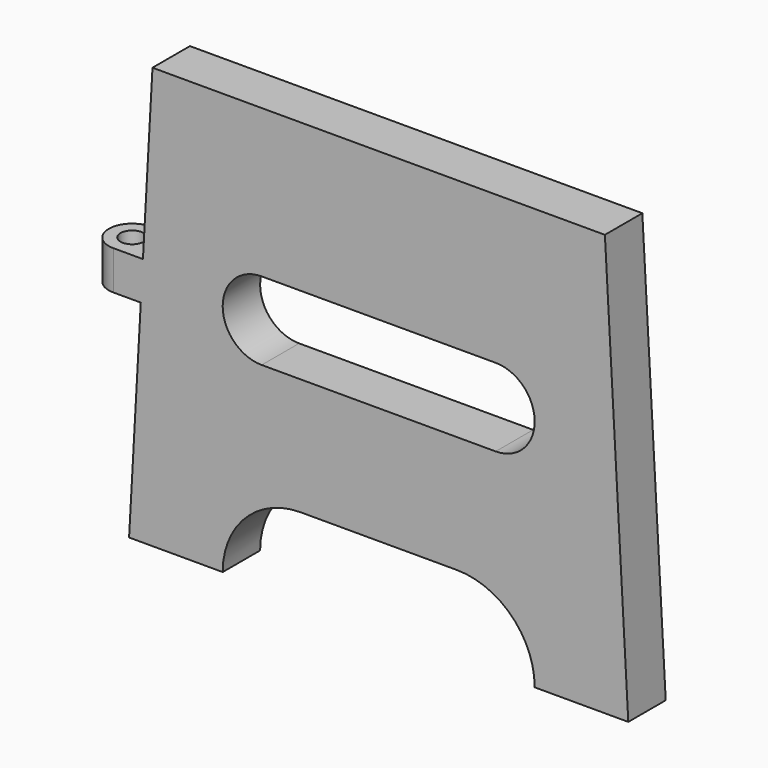
from build123d import *

# Parameters (mm, degrees)
F1_DEPTH = 15
F3_R     = 7.5
F4_DEPTH = 25


with BuildPart() as f1:
    # F0 (on Front) → F1 (new body, symmetric)
    with BuildSketch(Plane.XZ):
        with BuildLine():
            Line((145, 270), (0, 270))
            Line((0, 270), (-145, 270))
            Line((-145, 270), (-160, 0))
            Line((-160, 0), (-100, 0))
            ThreePointArc((-100, 0), (-85.355339, 35.355339), (-50, 50))
            Line((-50, 50), (0, 50))
            Line((0, 50), (50, 50))
            ThreePointArc((50, 50), (85.355339, 35.355339), (100, 0))
            Line((100, 0), (160, 0))
            Line((160, 0), (145, 270))
        make_face()
        with BuildLine():
            ThreePointArc((75, 175), (100, 150), (75, 125))
            Line((75, 125), (0, 125))
            Line((0, 125), (-75, 125))
            ThreePointArc((-75, 125), (-100, 150), (-75, 175))
            Line((-75, 175), (0, 175))
            Line((0, 175), (75, 175))
        make_face(mode=Mode.SUBTRACT)
    extrude(amount=F1_DEPTH, both=True)

    # F3 (on offset) → F4 (join)
    with BuildSketch(Plane.XY.offset(135)):
        with BuildLine():
            Line((-152.5, 15), (-170, 15))
            ThreePointArc((-170, 15), (-185, 0), (-170, -15))
            Line((-170, -15), (-152.5, -15))
            Line((-152.5, -15), (-132.574784, -15))
            Line((-132.574784, -15), (-132.574784, 15))
            Line((-132.574784, 15), (-152.5, 15))
        make_face()
        with Locations((-170, 0)):
            Circle(F3_R, mode=Mode.SUBTRACT)
    extrude(amount=F4_DEPTH)


solid = f1.part
